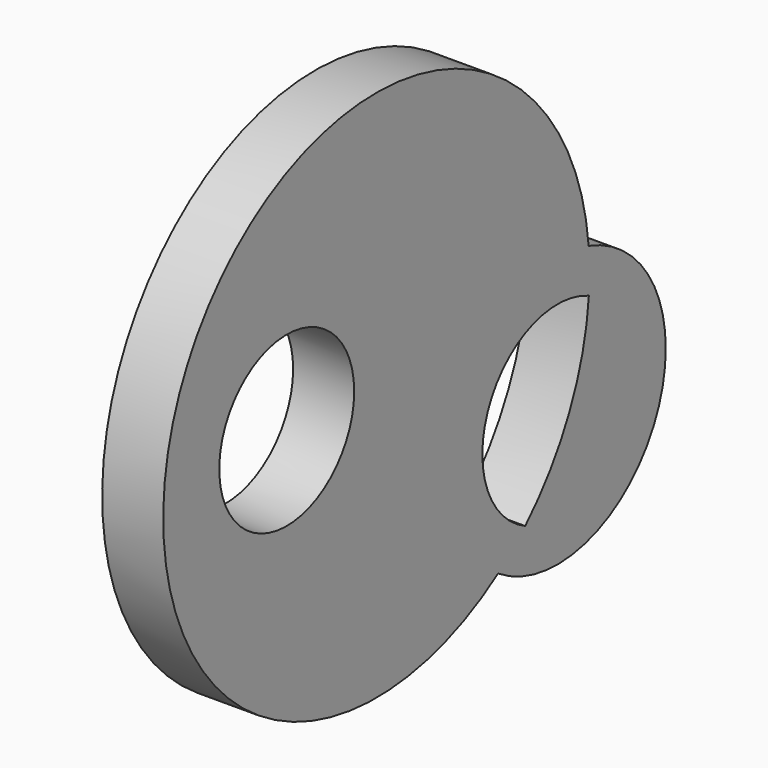
from build123d import *

# Parameters (mm, degrees)
F0_R     = 35.076034
F1_DEPTH = 25.4


with BuildPart() as f1:
    # F0 (on Right) → F1 (new body)
    with BuildSketch(Plane.YZ):
        with BuildLine():
            ThreePointArc((-89.428951, 18.721425), (-109.427871, 89.493095), (-42.316537, 119.570575))
            ThreePointArc((-42.316537, 119.570575), (-253.143997, 156.631129), (-89.428951, 18.721425))
        make_face()
        with Locations((-199.33337, 115.850568)):
            Circle(F0_R, mode=Mode.SUBTRACT)
        with BuildLine():
            ThreePointArc((-89.428951, 18.721425), (-31.793012, 16.153704), (-2.208179, 65.683819))
            ThreePointArc((-2.208179, 65.683819), (-13.335874, 99.271253), (-42.316537, 119.570575))
            ThreePointArc((-42.316537, 119.570575), (-41.987468, 114.64877), (-41.877707, 109.717198))
            ThreePointArc((-41.877707, 109.717198), (-41.958275, 105.49178), (-42.199862, 101.272504))
            ThreePointArc((-42.199862, 101.272504), (-25.542846, 86.834588), (-19.333609, 65.683819))
            ThreePointArc((-19.333609, 65.683819), (-37.588859, 32.588087), (-75.320546, 30.374146))
            ThreePointArc((-75.320546, 30.374146), (-82.133875, 24.256151), (-89.428951, 18.721425))
        make_face()
        with BuildLine():
            ThreePointArc((-41.877707, 109.717198), (-41.987468, 114.64877), (-42.316537, 119.570575))
            ThreePointArc((-42.316537, 119.570575), (-109.427871, 89.493095), (-89.428951, 18.721425))
            ThreePointArc((-89.428951, 18.721425), (-82.133875, 24.256151), (-75.320546, 30.374146))
            ThreePointArc((-75.320546, 30.374146), (-93.912014, 82.244749), (-42.199862, 101.272504))
            ThreePointArc((-42.199862, 101.272504), (-41.958275, 105.49178), (-41.877707, 109.717198))
        make_face()
        with BuildLine():
            ThreePointArc((-42.199862, 101.272504), (-52.295445, 62.803266), (-75.320546, 30.374146))
            ThreePointArc((-75.320546, 30.374146), (-37.588859, 32.588087), (-19.333609, 65.683819))
            ThreePointArc((-19.333609, 65.683819), (-25.542846, 86.834588), (-42.199862, 101.272504))
        make_face()
    extrude(amount=F1_DEPTH)


solid = f1.part
